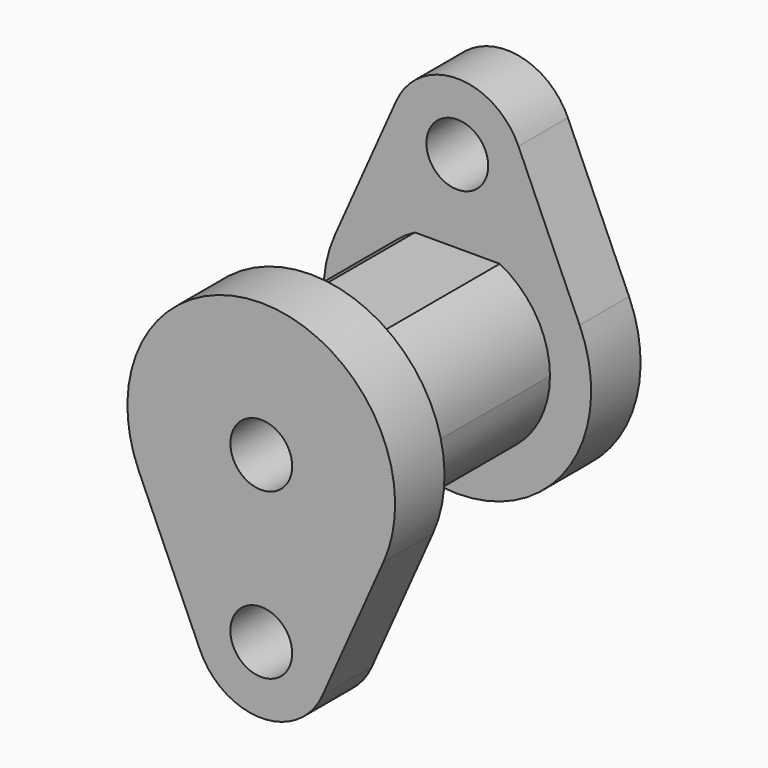
from build123d import *

# Parameters (mm, degrees)
F0_R     = 1.5
F1_DEPTH = 3
F3_DEPTH = 8.9
F4_R     = 1.5
F5_DEPTH = 20
F6_R     = 1.5
F7_DEPTH = 3


with BuildPart() as f1:
    # F0 (on Front) → F1 (new body)
    with BuildSketch(Plane.XZ):
        with BuildLine():
            Line((5.9394528039, 2.640625), (2.9697264019, 9.3203125))
            ThreePointArc((2.9697264019, 9.3203125), (0, 11.25), (-2.9697264019, 9.3203125))
            Line((-2.9697264019, 9.3203125), (-5.9394528039, 2.640625))
            ThreePointArc((-5.9394528039, 2.640625), (0, -6.5), (5.9394528039, 2.640625))
        make_face()
        with Locations((0, 8)):
            Circle(F0_R, mode=Mode.SUBTRACT)
    extrude(amount=-F1_DEPTH)

    # F2 (on face) → F3 (join)
    with BuildSketch(Plane.XZ):
        with BuildLine():
            ThreePointArc((-2.0615528128, 4), (-2.3423292192, -3.8423292192), (4.5, 0))
            ThreePointArc((4.5, 0), (3.8423292192, 2.3423292192), (2.0615528128, 4))
            Line((2.0615528128, 4), (-2.0615528128, 4))
        make_face()
    extrude(amount=F3_DEPTH)

    # F4 (on face) → F5 (cut)
    with BuildSketch(Plane.XZ.offset(8.9)):
        Circle(F4_R)
    extrude(amount=-F5_DEPTH, mode=Mode.SUBTRACT)

    # F6 (on face) → F7 (join)
    with BuildSketch(Plane.XZ.offset(8.9)):
        with BuildLine():
            Line((-5.9394528039, -2.640625), (-2.9697264019, -9.3203125))
            ThreePointArc((-2.9697264019, -9.3203125), (0, -11.25), (2.9697264019, -9.3203125))
            Line((2.9697264019, -9.3203125), (5.9394528039, -2.640625))
            ThreePointArc((5.9394528039, -2.640625), (0, 6.5), (-5.9394528039, -2.640625))
        make_face()
        with Locations((0, -8)):
            Circle(F6_R, mode=Mode.SUBTRACT)
        with BuildLine():
            Line((-2.0615528128, 4), (2.0615528128, 4))
            ThreePointArc((2.0615528128, 4), (3.8423292192, 2.3423292192), (4.5, 0))
            ThreePointArc((4.5, 0), (-2.3423292192, -3.8423292192), (-2.0615528128, 4))
        make_face(mode=Mode.SUBTRACT)
        with BuildLine():
            ThreePointArc((4.5, 0), (3.8423292192, 2.3423292192), (2.0615528128, 4))
            Line((2.0615528128, 4), (-2.0615528128, 4))
            ThreePointArc((-2.0615528128, 4), (-2.3423292192, -3.8423292192), (4.5, 0))
        make_face()
        Circle(F6_R, mode=Mode.SUBTRACT)
    extrude(amount=F7_DEPTH)


solid = f1.part
